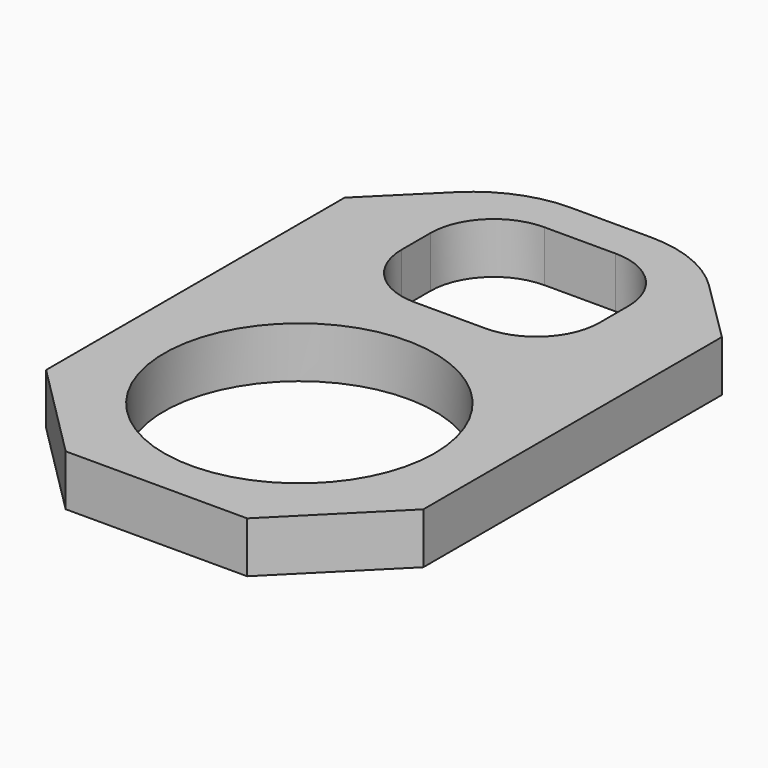
from build123d import *

# Parameters (mm, degrees)
F0_R     = 16.8529
F1_DEPTH = 6.35


with BuildPart() as f1:
    # F0 (on Top) → F1 (new body)
    with BuildSketch(Plane.XY):
        with BuildLine():
            Line((0, 12.192), (12.192, 0))
            Line((12.192, 0), (34.798, 0))
            Line((34.798, 0), (46.99, 12.192))
            Line((46.99, 12.192), (46.99, 58.674))
            Line((46.99, 58.674), (39.25383, 66.345702))
            ThreePointArc((39.25383, 66.345702), (34.325333, 69.616494), (28.522706, 70.7644))
            Line((28.522706, 70.7644), (18.467294, 70.7644))
            ThreePointArc((18.467294, 70.7644), (12.664667, 69.616494), (7.73617, 66.345702))
            Line((7.73617, 66.345702), (0, 58.674))
            Line((0, 58.674), (0, 12.192))
        make_face()
        with Locations((23.622, 22.098)):
            Circle(F0_R, mode=Mode.SUBTRACT)
        with BuildLine():
            ThreePointArc((11.176, 58.0644), (13.482241, 63.632159), (19.05, 65.9384))
            Line((19.05, 65.9384), (27.94, 65.9384))
            ThreePointArc((27.94, 65.9384), (33.507759, 63.632159), (35.814, 58.0644))
            Line((35.814, 58.0644), (35.814, 53.594))
            ThreePointArc((35.814, 53.594), (33.507759, 48.026241), (27.94, 45.72))
            Line((27.94, 45.72), (19.05, 45.72))
            ThreePointArc((19.05, 45.72), (13.482241, 48.026241), (11.176, 53.594))
            Line((11.176, 53.594), (11.176, 58.0644))
        make_face(mode=Mode.SUBTRACT)
    extrude(amount=F1_DEPTH)


solid = f1.part
